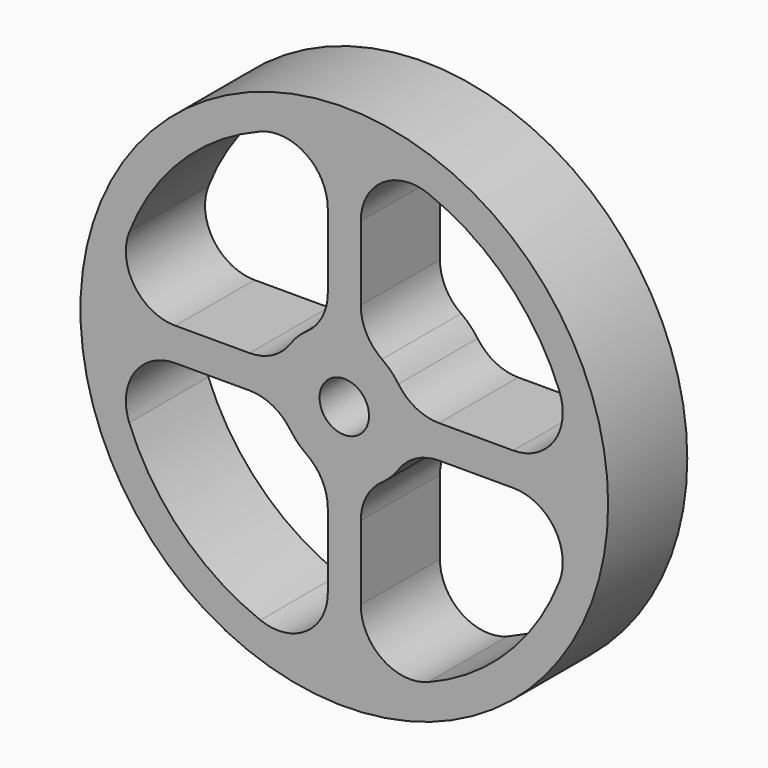
from build123d import *

# Parameters (mm, degrees)
F0_R     = 101.6
F0_R_2   = 9.525
F1_DEPTH = 38.1


with BuildPart() as f1:
    # F0 (on Front) → F1 (new body)
    with BuildSketch(Plane.XZ):
        Circle(F0_R)
        with BuildLine():
            ThreePointArc((-32.327273, -82.813993), (-62.861793, -62.861793), (-82.813993, -32.327273))
            ThreePointArc((-82.813993, -32.327273), (-80.798157, -14.654351), (-65.068137, -6.35))
            Line((-65.068137, -6.35), (-36.477973, -6.35))
            ThreePointArc((-36.477973, -6.35), (-27.659536, -8.51398), (-20.844556, -14.514286))
            ThreePointArc((-20.844556, -14.514286), (-17.960512, -17.960512), (-14.514286, -20.844556))
            ThreePointArc((-14.514286, -20.844556), (-8.51398, -27.659536), (-6.35, -36.477973))
            Line((-6.35, -36.477973), (-6.35, -65.068137))
            ThreePointArc((-6.35, -65.068137), (-14.654351, -80.798157), (-32.327273, -82.813993))
        make_face(mode=Mode.SUBTRACT)
        Circle(F0_R_2, mode=Mode.SUBTRACT)
        with BuildLine():
            ThreePointArc((20.844556, -14.514286), (27.659536, -8.51398), (36.477973, -6.35))
            Line((36.477973, -6.35), (65.068137, -6.35))
            ThreePointArc((65.068137, -6.35), (80.798157, -14.654351), (82.813993, -32.327273))
            ThreePointArc((82.813993, -32.327273), (62.861793, -62.861793), (32.327273, -82.813993))
            ThreePointArc((32.327273, -82.813993), (14.654351, -80.798157), (6.35, -65.068137))
            Line((6.35, -65.068137), (6.35, -36.477973))
            ThreePointArc((6.35, -36.477973), (8.51398, -27.659536), (14.514286, -20.844556))
            ThreePointArc((14.514286, -20.844556), (17.960512, -17.960512), (20.844556, -14.514286))
        make_face(mode=Mode.SUBTRACT)
        with BuildLine():
            ThreePointArc((-65.068137, 6.35), (-80.798157, 14.654351), (-82.813993, 32.327273))
            ThreePointArc((-82.813993, 32.327273), (-62.861793, 62.861793), (-32.327273, 82.813993))
            ThreePointArc((-32.327273, 82.813993), (-14.654351, 80.798157), (-6.35, 65.068137))
            Line((-6.35, 65.068137), (-6.35, 36.477973))
            ThreePointArc((-6.35, 36.477973), (-8.51398, 27.659536), (-14.514286, 20.844556))
            ThreePointArc((-14.514286, 20.844556), (-17.960512, 17.960512), (-20.844556, 14.514286))
            ThreePointArc((-20.844556, 14.514286), (-27.659536, 8.51398), (-36.477973, 6.35))
            Line((-36.477973, 6.35), (-65.068137, 6.35))
        make_face(mode=Mode.SUBTRACT)
        with BuildLine():
            Line((6.35, 36.477973), (6.35, 65.068137))
            ThreePointArc((6.35, 65.068137), (14.654351, 80.798157), (32.327273, 82.813993))
            ThreePointArc((32.327273, 82.813993), (62.861793, 62.861793), (82.813993, 32.327273))
            ThreePointArc((82.813993, 32.327273), (80.798157, 14.654351), (65.068137, 6.35))
            Line((65.068137, 6.35), (36.477973, 6.35))
            ThreePointArc((36.477973, 6.35), (27.659536, 8.51398), (20.844556, 14.514286))
            ThreePointArc((20.844556, 14.514286), (17.960512, 17.960512), (14.514286, 20.844556))
            ThreePointArc((14.514286, 20.844556), (8.51398, 27.659536), (6.35, 36.477973))
        make_face(mode=Mode.SUBTRACT)
    extrude(amount=F1_DEPTH)


solid = f1.part
